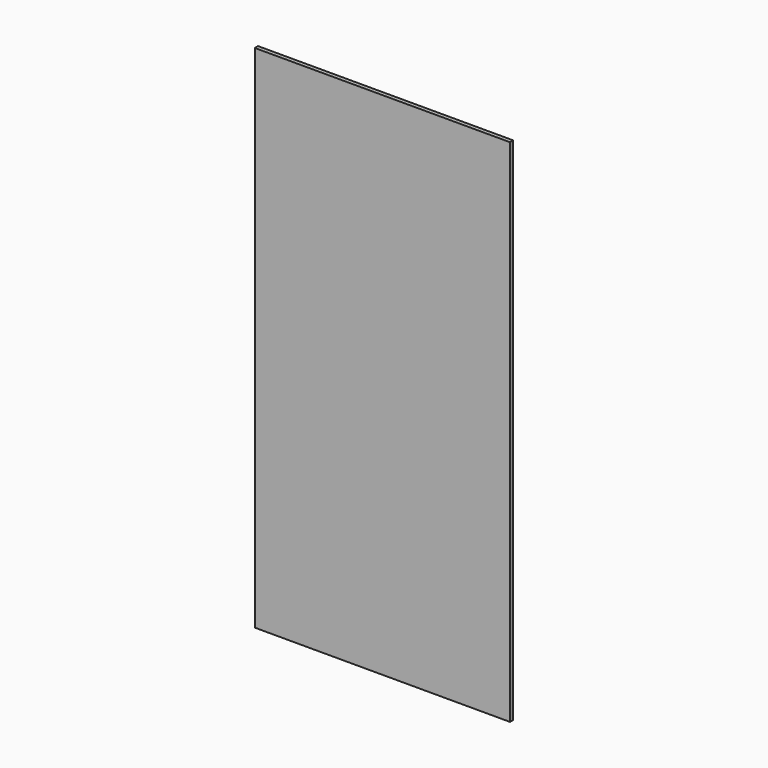
from build123d import *

# Parameters (mm, degrees)
F0_W     = 600
F0_H     = 2400
F1_DEPTH = 9.5


with BuildPart() as f1:
    # F0 (on Front) → F1 (new body, symmetric)
    with BuildSketch(Plane.XZ):
        with Locations((300, 0)):
            Rectangle(F0_W, F0_H)
        with Locations((-300, 0)):
            Rectangle(F0_W, F0_H)
    extrude(amount=F1_DEPTH, both=True)


solid = f1.part
